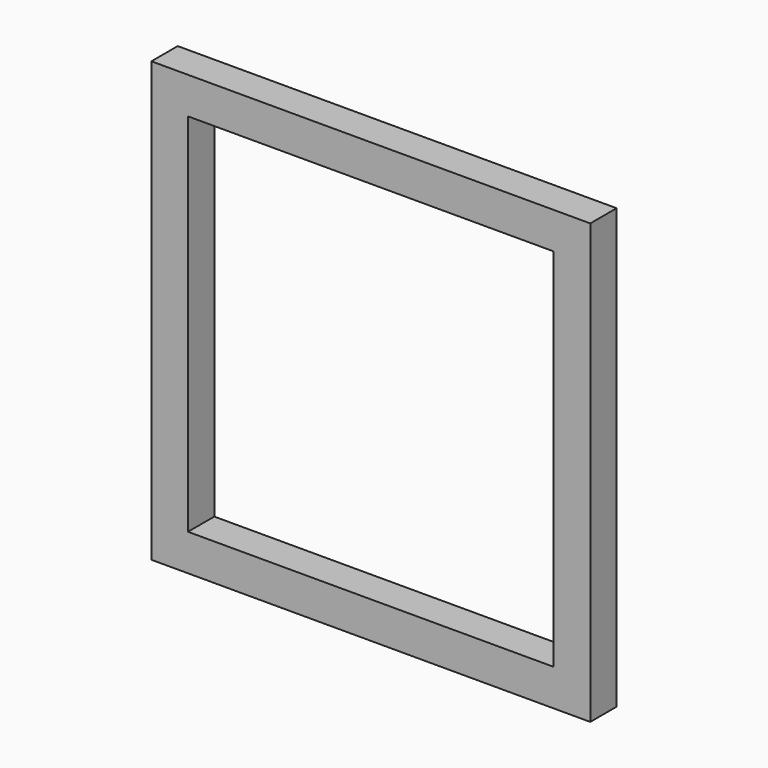
from build123d import *

# Parameters (mm, degrees)
F0_W     = 127
F0_H     = 12.7
F1_DEPTH = 11.43


with BuildPart() as f1:
    # F0 (on Front) → F1 (new body)
    with BuildSketch(Plane.XZ):
        Polygon((-77.508038, 82.618321), (-90.208038, 82.618321), (-90.208038, -69.781679), (-77.508038, -69.781679), (-77.508038, -57.081679), (-77.508038, 69.918321), align=None)
        with Locations((-14.008038, 76.268321)):
            Rectangle(F0_W, F0_H)
        Polygon((62.191962, 82.618321), (49.491962, 82.618321), (49.491962, 69.918321), (49.491962, -57.081679), (49.491962, -69.781679), (62.191962, -69.781679), align=None)
        with Locations((-14.008038, -63.431679)):
            Rectangle(F0_W, F0_H)
    extrude(amount=F1_DEPTH)


solid = f1.part
